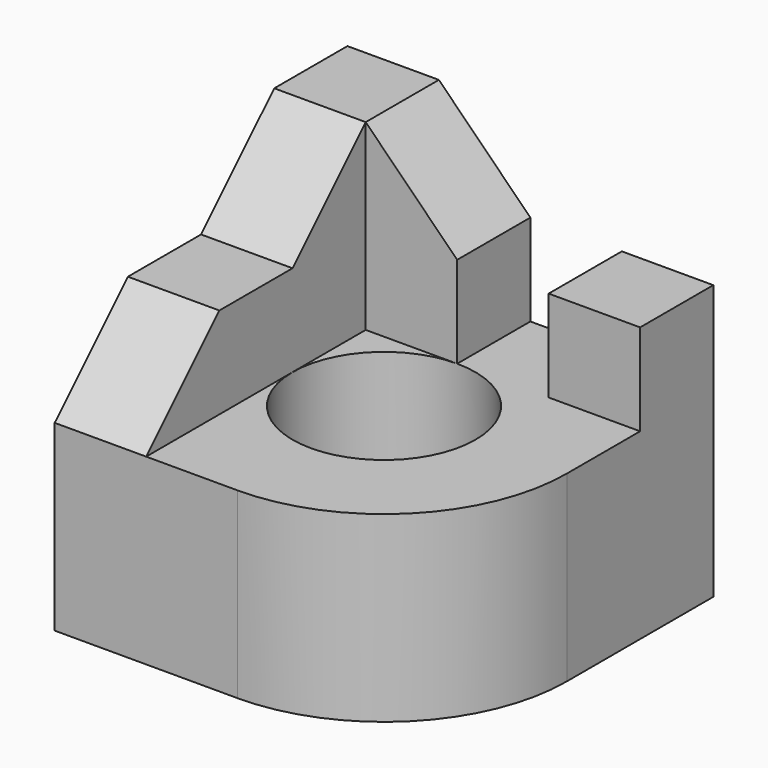
from build123d import *

# Parameters (mm, degrees)
F1_DEPTH = 20
F2_R     = 10
F3_DEPTH = 20.001
F5_DEPTH = 10
F6_W     = 10
F6_H     = 10
F7_DEPTH = 10


with BuildPart() as f1:
    # F0 (on Top) → F1 (new body)
    with BuildSketch(Plane.XY):
        with BuildLine():
            Line((0, 40), (0, 0))
            Line((0, 0), (20, 0))
            ThreePointArc((20, 0), (34.142136, 5.857864), (40, 20))
            Line((40, 20), (40, 40))
            Line((40, 40), (0, 40))
        make_face()
    extrude(amount=F1_DEPTH)

    # F2 (on face) → F3 (cut, through all)
    with BuildSketch(Plane.XY.offset(20)):
        with Locations((20, 20)):
            Circle(F2_R)
    extrude(amount=-F3_DEPTH, mode=Mode.SUBTRACT)

    # F4 (on Right) → F5 (join)
    with BuildSketch(Plane.YZ):
        Polygon((0, 20), (40, 20), (40, 40), (30, 40), (20, 30), (10, 30), align=None)
    extrude(amount=F5_DEPTH)

    # F6 (on face) → F7 (join)
    with BuildSketch(Plane(origin=(0, 40, 0), x_dir=(-1, 0, 0), z_dir=(0, 1, 0))):
        with Locations((-35, 25)):
            Rectangle(F6_W, F6_H)
        Polygon((-20, 30), (-20, 20), (-10, 20), (-10, 40), align=None)
    extrude(amount=-F7_DEPTH)


solid = f1.part
